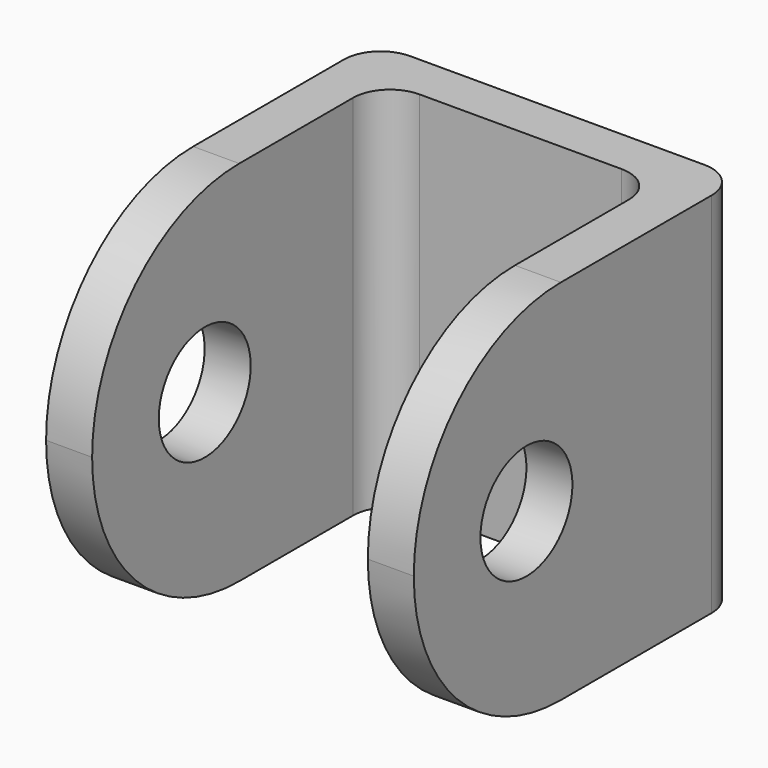
from build123d import *

# Parameters (mm, degrees)
F0_W     = 50.8
F0_H     = 50.8
F1_DEPTH = 6.35
F2_W     = 6.3624648929
F2_H     = 50.8
F2_W_2   = 6.35
F3_DEPTH = 44.45
F4_R     = 5.08
F5_DEPTH = 6.35
F7_DEPTH = 148.336
F8_R     = 7.9375
F9_DEPTH = 94.742


with BuildPart() as f1:
    # F0 (on Front) → F1 (new body)
    with BuildSketch(Plane.XZ):
        with Locations((-25.4, 25.4)):
            Rectangle(F0_W, F0_H)
    extrude(amount=F1_DEPTH)

    # F2 (on face) → F3 (join)
    with BuildSketch(Plane.XZ.offset(6.35)):
        with Locations((-47.6187675536, 25.4)):
            Rectangle(F2_W, F2_H)
        with Locations((-3.175, 25.4)):
            Rectangle(F2_W_2, F2_H)
    extrude(amount=F3_DEPTH)

    # F4
    f4_edges = [f1.edges().sort_by_distance(p)[0] for p in [
        (-6.35, -6.35, 25.4),
        (-50.8, 0, 25.4),
        (-44.437535, -6.35, 25.4),
        (0, 0, 25.4),
    ]]
    fillet(f4_edges, radius=F4_R)

    # F5 (add): faces of the model
    f5_faces = [f1.faces().sort_by_distance(p)[0] for p in [
        (-47.6187675536, -50.8, 25.4),
        (-3.175, -50.8, 25.4),
        (-47.6187675536, -50.8, 25.4),
        (-3.175, -50.8, 25.4),
    ]]
    extrude(f5_faces, amount=F5_DEPTH)

    # F6 (on face) → F7 (cut)
    with BuildSketch(Plane(origin=(-50.8, 0, 0), x_dir=(0, -1, 0), z_dir=(-1, 0, 0))):
        with BuildLine():
            ThreePointArc((31.115, 50.8), (49.0755122421, 43.3605122421), (56.515, 25.4))
            ThreePointArc((56.515, 25.4), (49.0755122421, 7.4394877579), (31.115, 0))
            Line((31.115, 0), (57.15, 0))
            Line((57.15, 0), (57.15, 50.8))
            Line((57.15, 50.8), (31.115, 50.8))
        make_face()
    extrude(amount=-F7_DEPTH, mode=Mode.SUBTRACT)

    # F8 (on face) → F9 (cut)
    with BuildSketch(Plane(origin=(-50.8, 0, 0), x_dir=(0, -1, 0), z_dir=(-1, 0, 0))):
        with Locations((37.0687320828, 25.4)):
            Circle(F8_R)
    extrude(amount=-F9_DEPTH, mode=Mode.SUBTRACT)


solid = f1.part
